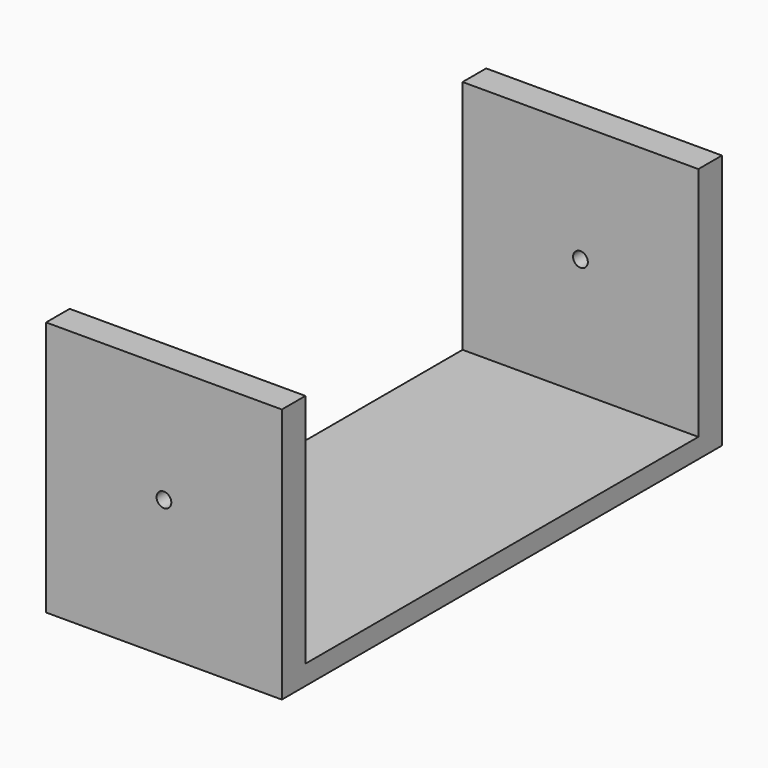
from build123d import *

# Parameters (mm, degrees)
F0_W     = 19.05
F0_H     = 152.4
F0_H_2   = 12.7
F0_W_2   = 317.5
F1_DEPTH = 152.4
F2_R     = 4.7625
F3_DEPTH = 406.4


with BuildPart() as f1:
    # F0 (on Right) → F1 (new body)
    with BuildSketch(Plane.YZ):
        with Locations((9.525, 88.9)):
            Rectangle(F0_W, F0_H)
        with Locations((9.525, 6.35)):
            Rectangle(F0_W, F0_H_2)
        with Locations((177.8, 6.35)):
            Rectangle(F0_W_2, F0_H_2)
        with Locations((346.075, 88.9)):
            Rectangle(F0_W, F0_H)
        with Locations((346.075, 6.35)):
            Rectangle(F0_W, F0_H_2)
    extrude(amount=F1_DEPTH)

    # F2 (on Front) → F3 (cut)
    with BuildSketch(Plane.XZ):
        with Locations((76.2, 88.9)):
            Circle(F2_R)
    extrude(amount=-F3_DEPTH, mode=Mode.SUBTRACT)


solid = f1.part
